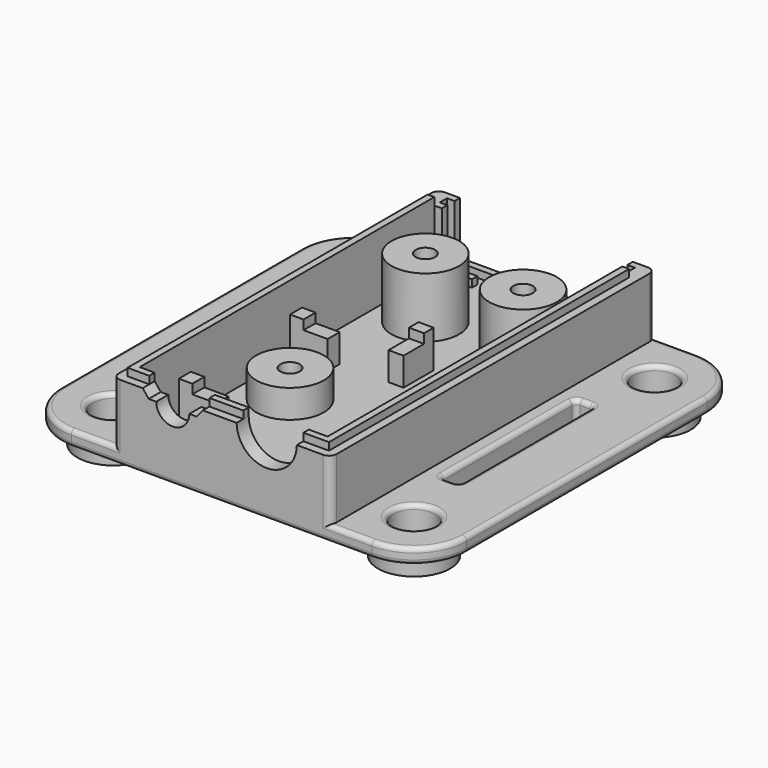
from build123d import *

# Parameters (mm, degrees)
SKETCH008_W     = 36.83
SKETCH008_H     = 68.58
PAD006_DEPTH    = 8.89
SKETCH009_W     = 31.75
SKETCH009_H     = 62.23
POCKET001_DEPTH = 6.35
SKETCH010_R     = 5.715
SKETCH010_W     = 6.35
SKETCH010_H     = 2.54
SKETCH010_W_2   = 5.08
SKETCH010_W_3   = 2.54
SKETCH010_H_2   = 6.35
SKETCH010_H_3   = 3.81
PAD007_DEPTH    = 6.35
POCKET002_DEPTH = 1.5875
SKETCH012_W     = 36.83
SKETCH012_H     = 68.58
SKETCH012_W_2   = 31.75
SKETCH012_H_2   = 62.23
SKETCH012_R     = 5.715
PAD008_DEPTH    = 3.81
SKETCH013_R     = 5.08
POCKET003_DEPTH = 5.08
SKETCH014_R     = 1.651
POCKET004_DEPTH = 12.701
SKETCH015_R     = 3.175
POCKET005_DEPTH = 10.16
SKETCH016_R     = 3.175
POCKET006_DEPTH = 4.7625
SKETCH017_W     = 5.715
SKETCH017_H     = 1.143
PAD009_DEPTH    = 1.27
POCKET007_DEPTH = 10.16
SKETCH019_W     = 29.21
SKETCH019_H     = 1.143
SKETCH019_W_2   = 5.08
PAD010_DEPTH    = 1.27
SKETCH020_R     = 3.556
SKETCH020_W     = 3.175
SKETCH020_H     = 28.575
PAD011_DEPTH    = 2.54
SKETCH021_R     = 3.556
SKETCH021_W     = 3.175
SKETCH021_H     = 28.575
PAD012_DEPTH    = 3.175
FILLET001_R     = 1.27
FILLET002_R     = 0.762
FILLET003_R     = 0.762


with BuildPart() as part:
    # Sketch008 → Pad006 (new body)
    with BuildSketch(Plane.XY):
        with Locations((15.875, 31.75)):
            Rectangle(SKETCH008_W, SKETCH008_H)
    extrude(amount=-PAD006_DEPTH)

    # Sketch009 (on Face5 of Pad006) → Pocket001 (cut)
    with BuildSketch(Plane.XY):
        with Locations((15.875, 31.115)):
            Rectangle(SKETCH009_W, SKETCH009_H)
    extrude(amount=-POCKET001_DEPTH, mode=Mode.SUBTRACT)

    # Sketch010 (on Face11 of Pocket001) → Pad007 (join)
    with BuildSketch(Plane.XY.offset(-6.35)):
        with Locations((7.62, 22.225)):
            Circle(SKETCH010_R)
        with Locations((7.62, 50.8)):
            Circle(SKETCH010_R)
        with Locations((24.13, 50.8)):
            Circle(SKETCH010_R)
        with Locations((3.175, 33.02)):
            Rectangle(SKETCH010_W, SKETCH010_H)
        with Locations((29.21, 33.02)):
            Rectangle(SKETCH010_W_2, SKETCH010_H)
        with Locations((3.175, 9.525)):
            Rectangle(SKETCH010_W, SKETCH010_H)
        with Locations((29.21, 9.525)):
            Rectangle(SKETCH010_W_2, SKETCH010_H)
        with Locations((15.875, 37.465)):
            Rectangle(SKETCH010_W_3, SKETCH010_H_2)
        with Locations((13.97, 1.905)):
            Rectangle(SKETCH010_W_3, SKETCH010_H_3)
    extrude(amount=PAD007_DEPTH)

    # Sketch011 (on Face4 of Pad007) → Pocket002 (cut)
    with BuildSketch(Plane.XY):
        with BuildLine():
            Line((2.286, 0), (31.369, 0))
            Line((31.369, 0), (31.369, 38.608))
            Line((31.369, 38.608), (2.286, 38.608))
            Line((2.286, 38.608), (2.286, 25.670424))
            ThreePointArc((2.286, 25.670424), (1.27, 22.225), (2.286, 18.779576))
            Line((2.286, 0), (2.286, 18.779576))
        make_face()
    extrude(amount=-POCKET002_DEPTH, mode=Mode.SUBTRACT)

    # Sketch012 (on Face4 of Pocket002) → Pad008 (join)
    with BuildSketch(Plane.XY):
        with Locations((15.875, 31.75)):
            Rectangle(SKETCH012_W, SKETCH012_H)
        with Locations((15.875, 31.115)):
            Rectangle(SKETCH012_W_2, SKETCH012_H_2, mode=Mode.SUBTRACT)
        with Locations((7.62, 50.8)):
            Circle(SKETCH012_R)
        with Locations((24.13, 50.8)):
            Circle(SKETCH012_R)
    extrude(amount=PAD008_DEPTH)

    # Sketch013 (on Face4 of Pad008) → Pocket003 (cut)
    with BuildSketch(Plane.XZ.offset(2.54)):
        with Locations((23.495, 3.81)):
            Circle(SKETCH013_R)
        with BuildLine():
            Line((2.54, 3.81), (3.556, 2.54))
            Line((3.556, 2.54), (4.826, 2.54))
            ThreePointArc((4.826, 2.54), (7.62, -0.254), (10.414, 2.54))
            Line((10.414, 2.54), (11.684, 2.54))
            Line((11.684, 2.54), (12.7, 3.81))
            Line((12.7, 3.81), (2.54, 3.81))
        make_face()
    extrude(amount=-POCKET003_DEPTH, mode=Mode.SUBTRACT)

    # Sketch014 (on Face11 of Pocket003) → Pocket004 (cut, through all)
    with BuildSketch(Plane.XY.offset(3.81)):
        with Locations((7.62, 50.8)):
            Circle(SKETCH014_R)
        with Locations((24.13, 50.8)):
            Circle(SKETCH014_R)
        with Locations((7.62, 22.225)):
            Circle(SKETCH014_R)
    extrude(amount=-POCKET004_DEPTH, mode=Mode.SUBTRACT)

    # Sketch015 (on Face8 of Pocket004) → Pocket005 (cut)
    with BuildSketch(Plane(origin=(0, 0, -8.89), x_dir=(1, 0, 0), z_dir=(0, 0, -1))):
        with Locations((7.62, -50.8)):
            Circle(SKETCH015_R)
        with Locations((24.13, -50.8)):
            Circle(SKETCH015_R)
    extrude(amount=-POCKET005_DEPTH, mode=Mode.SUBTRACT)

    # Sketch016 (on Face8 of Pocket005) → Pocket006 (cut)
    with BuildSketch(Plane(origin=(0, 0, -8.89), x_dir=(1, 0, 0), z_dir=(0, 0, -1))):
        with Locations((7.62, -22.225)):
            Circle(SKETCH016_R)
    extrude(amount=-POCKET006_DEPTH, mode=Mode.SUBTRACT)

    # Sketch017 (on Face11 of Pocket006) → Pad009 (join)
    with BuildSketch(Plane.XY.offset(3.81)):
        Polygon((0, 62.23), (-1.143, 62.23), (-1.143, -1.143), (2.54, -1.143), (2.54, 0), (0, 0), align=None)
        Polygon((31.75, 62.23), (31.75, 0), (28.575, 0), (28.575, -1.143), (32.893, -1.143), (32.893, 62.23), align=None)
        with Locations((15.5575, -0.5715)):
            Rectangle(SKETCH017_W, SKETCH017_H)
    extrude(amount=PAD009_DEPTH)

    # Sketch018 (on Face11 of Pad009) → Pocket007 (cut)
    with BuildSketch(Plane.XY.offset(3.81)):
        Polygon((1.27, 66.04), (1.27, 64.897), (0, 64.897), (0, 63.373), (1.27, 63.373), (1.27, 62.23), (30.48, 62.23), (30.48, 63.373), (31.75, 63.373), (31.75, 64.897), (30.48, 64.897), (30.48, 66.04), align=None)
    extrude(amount=-POCKET007_DEPTH, mode=Mode.SUBTRACT)

    # Sketch019 (on Face63 of Pocket007) → Pad010 (join)
    with BuildSketch(Plane.XY.offset(-6.35)):
        with Locations((15.875, 65.4685)):
            Rectangle(SKETCH019_W, SKETCH019_H)
        with Locations((3.81, 62.8015)):
            Rectangle(SKETCH019_W_2, SKETCH019_H)
        with Locations((27.94, 62.8015)):
            Rectangle(SKETCH019_W_2, SKETCH019_H)
    extrude(amount=PAD010_DEPTH)

    # Sketch020 (on Face8 of Clone003) → Pad011 (new body)
    with BuildSketch(Plane(origin=(0, 0, -8.89), x_dir=(1, 0, 0), z_dir=(0, 0, -1))):
        with BuildLine():
            Line((34.29, 2.54), (41.275, 2.54))
            ThreePointArc((50.165, -6.35), (47.561179, -0.063821), (41.275, 2.54))
            Line((50.165, -57.15), (50.165, -6.35))
            ThreePointArc((41.275, -66.04), (47.561179, -63.436179), (50.165, -57.15))
            Line((41.275, -66.04), (34.29, -66.04))
            Line((34.29, 2.54), (34.29, -66.04))
        make_face()
        with Locations((41.275, -6.35)):
            Circle(SKETCH020_R, mode=Mode.SUBTRACT)
        with Locations((41.275, -57.15)):
            Circle(SKETCH020_R, mode=Mode.SUBTRACT)
        with Locations((38.4175, -31.75)):
            Rectangle(SKETCH020_W, SKETCH020_H, mode=Mode.SUBTRACT)
        with BuildLine():
            Line((-2.54, -66.04), (-9.525, -66.04))
            ThreePointArc((-18.415, -57.15), (-15.811179, -63.436179), (-9.525, -66.04))
            Line((-18.415, -6.35), (-18.415, -57.15))
            ThreePointArc((-9.525, 2.54), (-15.811179, -0.063821), (-18.415, -6.35))
            Line((-9.525, 2.54), (-2.54, 2.54))
            Line((-2.54, 2.54), (-2.54, -66.04))
        make_face()
        with Locations((-9.525, -6.35)):
            Circle(SKETCH020_R, mode=Mode.SUBTRACT)
        with Locations((-9.525, -57.15)):
            Circle(SKETCH020_R, mode=Mode.SUBTRACT)
        with Locations((-6.6675, -31.75)):
            Rectangle(SKETCH020_W, SKETCH020_H, mode=Mode.SUBTRACT)
    extrude(amount=-PAD011_DEPTH)

    # Sketch021 (on Face9 of Pad011) → Pad012 (join)
    with BuildSketch(Plane(origin=(0, 0, -8.89), x_dir=(1, 0, 0), z_dir=(0, 0, -1))):
        with BuildLine():
            Line((-10.795, -51.187759), (-10.795, -12.312241))
            ThreePointArc((-3.562759, -5.08), (-13.835523, -2.039477), (-10.795, -12.312241))
            Line((-3.562759, -5.08), (35.312759, -5.08))
            ThreePointArc((42.545, -12.312241), (45.585523, -2.039477), (35.312759, -5.08))
            Line((42.545, -51.187759), (42.545, -12.312241))
            ThreePointArc((35.312759, -58.42), (45.585523, -61.460523), (42.545, -51.187759))
            Line((35.312759, -58.42), (-3.562759, -58.42))
            ThreePointArc((-10.795, -51.187759), (-13.835523, -61.460523), (-3.562759, -58.42))
        make_face()
        with Locations((-9.525, -57.15)):
            Circle(SKETCH021_R, mode=Mode.SUBTRACT)
        with Locations((41.275, -57.15)):
            Circle(SKETCH021_R, mode=Mode.SUBTRACT)
        with Locations((-9.525, -6.35)):
            Circle(SKETCH021_R, mode=Mode.SUBTRACT)
        with Locations((41.275, -6.35)):
            Circle(SKETCH021_R, mode=Mode.SUBTRACT)
        with BuildLine():
            Line((35.312759, -7.62), (-3.562759, -7.62))
            ThreePointArc((-8.255, -12.312241), (-5.214477, -10.660523), (-3.562759, -7.62))
            Line((-8.255, -12.312241), (-8.255, -14.9225))
            Line((-8.255, -14.9225), (-2.54, -14.9225))
            Line((-2.54, -14.9225), (-2.54, -48.5775))
            Line((-2.54, -48.5775), (-8.255, -48.5775))
            Line((-8.255, -48.5775), (-8.255, -51.187759))
            ThreePointArc((-3.562759, -55.88), (-5.214477, -52.839477), (-8.255, -51.187759))
            Line((-3.562759, -55.88), (35.312759, -55.88))
            ThreePointArc((40.005, -51.187759), (36.964477, -52.839477), (35.312759, -55.88))
            Line((40.005, -48.5775), (40.005, -51.187759))
            Line((34.29, -48.5775), (40.005, -48.5775))
            Line((34.29, -14.9225), (34.29, -48.5775))
            Line((40.005, -14.9225), (34.29, -14.9225))
            Line((40.005, -12.312241), (40.005, -14.9225))
            ThreePointArc((35.312759, -7.62), (36.964477, -10.660523), (40.005, -12.312241))
        make_face(mode=Mode.SUBTRACT)
        with Locations((-6.6675, -31.75)):
            Rectangle(SKETCH021_W, SKETCH021_H, mode=Mode.SUBTRACT)
        with Locations((38.4175, -31.75)):
            Rectangle(SKETCH021_W, SKETCH021_H, mode=Mode.SUBTRACT)
    extrude(amount=PAD012_DEPTH)

    # Fillet001
    fillet001_edges = [part.edges().sort_by_distance(p)[0] for p in [
        (34.29, -2.54, 1.905),
        (34.29, -2.54, -3.175),
        (34.29, 66.04, -3.175),
        (34.29, 66.04, 1.905),
        (-2.54, -2.54, 1.905),
        (-2.54, -2.54, -3.175),
        (-2.54, 66.04, -3.175),
        (-2.54, 66.04, 1.905),
    ]]
    fillet(fillet001_edges, radius=FILLET001_R)

    # Fillet002
    fillet002_edges = [part.edges().sort_by_distance(p)[0] for p in [
        (36.83, 46.0375, -10.4775),
        (36.83, 46.0375, -7.62),
        (36.83, 17.4625, -10.4775),
        (36.83, 17.4625, -7.62),
        (40.005, 46.0375, -10.4775),
        (40.005, 46.0375, -7.62),
        (40.005, 17.4625, -10.4775),
        (40.005, 17.4625, -7.62),
        (36.83, 31.75, -6.35),
        (38.4175, 46.0375, -6.35),
        (40.005, 31.75, -6.35),
        (38.4175, 17.4625, -6.35),
        (-6.6675, 46.0375, -6.35),
        (-8.255, 31.75, -6.35),
        (-8.255, 46.0375, -10.4775),
        (-8.255, 46.0375, -7.62),
        (-6.6675, 46.0375, -12.065),
        (-8.255, 31.75, -12.065),
        (-6.6675, 17.4625, -12.065),
        (-8.255, 17.4625, -10.4775),
        (-8.255, 17.4625, -7.62),
        (-6.6675, 17.4625, -6.35),
        (-5.08, 31.75, -6.35),
        (-5.08, 46.0375, -10.4775),
        (-5.08, 46.0375, -7.62),
        (-5.08, 31.75, -12.065),
        (-5.08, 17.4625, -10.4775),
        (-5.08, 17.4625, -7.62),
        (36.83, 31.75, -12.065),
        (38.4175, 17.4625, -12.065),
        (40.005, 31.75, -12.065),
        (38.4175, 46.0375, -12.065),
    ]]
    fillet(fillet002_edges, radius=FILLET002_R)

    # Fillet003
    fillet003_edges = [part.edges().sort_by_distance(p)[0] for p in [
        (-15.811179, 0.063821, -8.89),
        (-6.0325, -2.54, -8.89),
        (15.875, -2.54, -8.89),
        (37.7825, -2.54, -8.89),
        (47.561179, 0.063821, -8.89),
        (50.165, 31.75, -8.89),
        (47.561179, 63.436179, -8.89),
        (37.7825, 66.04, -8.89),
        (15.875, 66.04, -8.89),
        (-6.0325, 66.04, -8.89),
        (-15.811179, 63.436179, -8.89),
        (-18.415, 31.75, -8.89),
        (33.655, -2.54, -6.35),
        (37.7825, -2.54, -6.35),
        (47.561179, 0.063821, -6.35),
        (50.165, 31.75, -6.35),
        (47.561179, 63.436179, -6.35),
        (-1.905, -2.54, -6.35),
        (-6.0325, -2.54, -6.35),
        (-15.811179, 0.063821, -6.35),
        (-18.415, 31.75, -6.35),
        (-15.811179, 63.436179, -6.35),
        (-6.0325, 66.04, -6.35),
        (-1.905, 66.04, -6.35),
        (33.655, 66.04, -6.35),
        (37.7825, 66.04, -6.35),
        (37.719, 6.35, -6.35),
        (37.719, 57.15, -6.35),
        (-13.081, 6.35, -6.35),
        (-13.081, 57.15, -6.35),
    ]]
    fillet(fillet003_edges, radius=FILLET003_R)


solid = part.part
